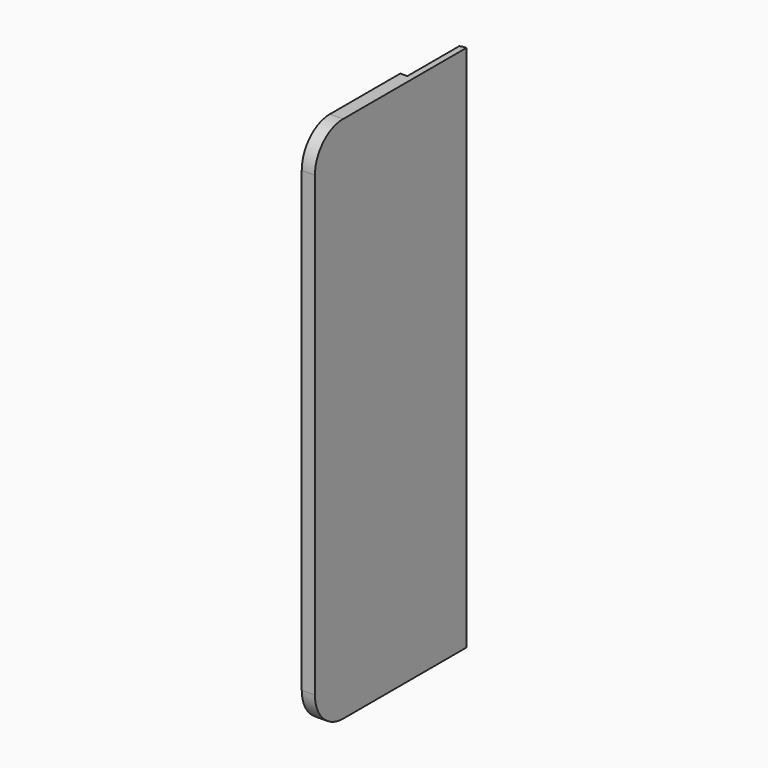
from build123d import *

# Parameters (mm, degrees)
F0_W      = 3
F0_H      = 30
F1_DEPTH  = 70
F2_W      = 1.5
F2_H      = 15
F3_DEPTH  = 70
F5_DEPTH  = 8.8
F6_DEPTH  = 25
F7_DEPTH  = 25
F8_DEPTH  = 13
F9_W      = 0.1
F9_H      = 58.1
F10_DEPTH = 15
F12_DEPTH = 130
F14_DEPTH = 130
F15_R     = 8
F17_W     = 1.6
F17_H     = 18.1
F16_W     = 1.6
F16_H     = 18.1
F18_DEPTH = 1.1
F20_DEPTH = 44.7


with BuildPart() as f1:
    # F0 (on Top) → F1 (new body)
    with BuildSketch(Plane.XY):
        Rectangle(F0_W, F0_H)
    extrude(amount=F1_DEPTH)

    # F2 (on face) → F3 (cut)
    with BuildSketch(Plane.XY.offset(70)):
        with Locations((-0.75, 7.5)):
            Rectangle(F2_W, F2_H)
    extrude(amount=-F3_DEPTH, mode=Mode.SUBTRACT)

    # F4 (on face) → F5 (join)
    with BuildSketch(Plane(origin=(0, 0, 0), x_dir=(-1, 0, 0), z_dir=(0, 1, 0))):
        with BuildLine():
            Line((1.5, 33.833809621), (1.5, 36.166190379))
            ThreePointArc((1.5, 36.166190379), (0.8349366084, 36.7067163971), (0, 36.9))
            Line((0, 36.9), (0, 33.1))
            ThreePointArc((0, 33.1), (0.8349366084, 33.2932836029), (1.5, 33.833809621))
        make_face()
    extrude(amount=F5_DEPTH)

    # F6 (add): a face of the model
    f6_faces = [f1.faces().sort_by_distance(p)[0] for p in [
        (0.25, -2.5, 0),
    ]]
    extrude(f6_faces, amount=F6_DEPTH)

    # F7 (add): a face of the model
    f7_faces = [f1.faces().sort_by_distance(p)[0] for p in [
        (0.25, -2.5, 70),
    ]]
    extrude(f7_faces, amount=F7_DEPTH)

    # F8 (add): a face of the model
    f8_faces = [f1.faces().sort_by_distance(p)[0] for p in [
        (0, -15, 35),
    ]]
    extrude(f8_faces, amount=F8_DEPTH)

    # F9 (on face) → F10 (cut)
    with BuildSketch(Plane(origin=(0, 15, 0), x_dir=(-1, 0, 0), z_dir=(0, 1, 0))):
        with Locations((-0.05, 65.95)):
            Rectangle(F9_W, F9_H)
        with Locations((-0.05, 4.05)):
            Rectangle(F9_W, F9_H)
    extrude(amount=-F10_DEPTH, mode=Mode.SUBTRACT)

    # F11 (on face) → F12 (cut)
    with BuildSketch(Plane(origin=(0, 0, -25), x_dir=(1, 0, 0), z_dir=(0, 0, -1))):
        Polygon((-1.7338935286, -15.3450844809), (0.3, -15), (0.1, -15), (0.1, -14.7996032594), (-1.6308530467, -13.0653167143), align=None)
    extrude(amount=-F12_DEPTH, mode=Mode.SUBTRACT)

    # F13 (on face) → F14 (cut)
    with BuildSketch(Plane(origin=(0, 0, -25), x_dir=(1, 0, 0), z_dir=(0, 0, -1))):
        Polygon((0.1, -14.7832093728), (0.0735654176, -14.7755583748), (-0.2710041881, -15.1656661183), (0.654931704, -15.2749568224), (1.0070909047, -15.0457499549), (0.8490225115, -15), (0.1, -15), align=None)
        Polygon((0.8490225115, -15), (0.1, -14.7832093728), (0.1, -15), align=None)
    extrude(amount=-F14_DEPTH, mode=Mode.SUBTRACT)

    # F15
    f15_edges = [f1.edges().sort_by_distance(p)[0] for p in [
        (0, -28, 95),
        (0, -28, -25),
    ]]
    fillet(f15_edges, radius=F15_R)

    # F17 (on face) + F16 (on face) → F18 (cut)
    with BuildSketch(Plane(origin=(0, 0, 0), x_dir=(-1, 0, 0), z_dir=(0, 1, 0))):
        with Locations((0.7, 4.1168239134)):
            Rectangle(F17_W, F17_H)
    with BuildSketch(Plane(origin=(0, 0, 0), x_dir=(-1, 0, 0), z_dir=(0, 1, 0))):
        with Locations((0.7, 65.8831760866)):
            Rectangle(F16_W, F16_H)
    extrude(amount=-F18_DEPTH, mode=Mode.SUBTRACT)

    # F19 (on Top) → F20 (cut)
    with BuildSketch(Plane.XY):
        Polygon((-4.6543548815, 8.3620538935), (-2.3670103401, 7.1775359102), (0, 8.7909307331), (-4.6543548815, 10.0162932649), align=None)
    extrude(amount=F20_DEPTH, mode=Mode.SUBTRACT)


solid = f1.part
